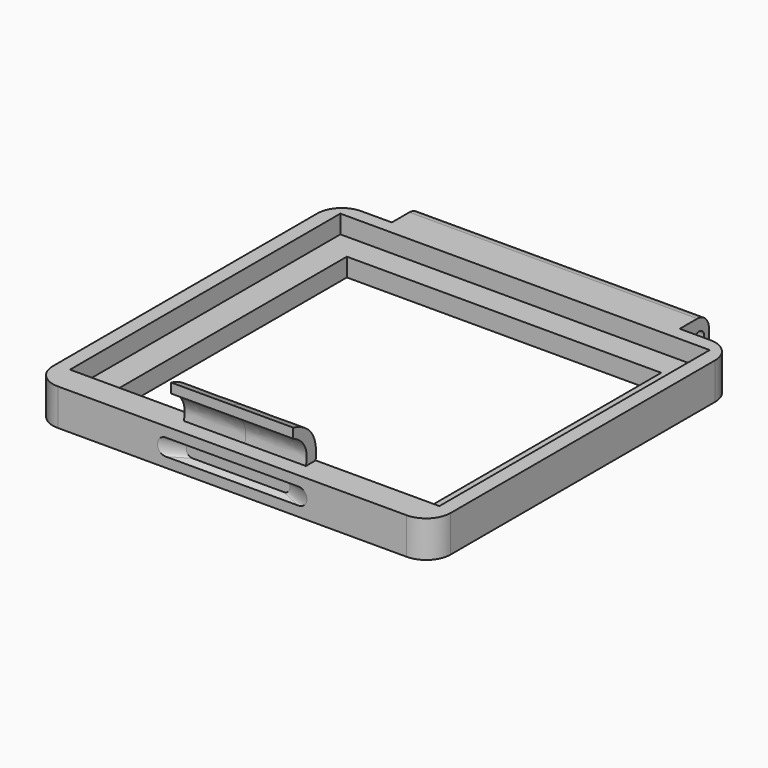
from build123d import *

# Parameters (mm, degrees)
PAD003_DEPTH         = 3
SKETCH012_R          = 0.5
POCKET003_DEPTH      = 16.301
POCKET003_DEPTH_BACK = 16.301
SKETCH013_W          = 30.27619
SKETCH013_H          = 27.7
POCKET004_DEPTH      = 1.5
SKETCH014_W          = 25.766444
SKETCH014_H          = 24.595242
POCKET005_DEPTH      = 3.001
FILLET_R             = 1.2
PAD005_DEPTH         = 5
FILLET002_R          = 2


with BuildPart() as part:
    # Sketch009 → Pad003 (new body)
    with BuildSketch(Plane.XY):
        Polygon((-11.8, 14.8), (-16.3, 14.8), (-16.3, -16.3), (16.3, -16.3), (16.3, 14.8), (11.8, 14.8), (11.8, 17.8), (-11.8, 17.8), align=None)
    extrude(amount=PAD003_DEPTH)

    # Sketch010 (on DatumPlane) → SubtractiveLoft section 0
    with BuildSketch(Plane.XZ.offset(16.5)):
        with BuildLine():
            ThreePointArc((-6, 2.25), (-6.75, 1.5), (-6, 0.75))
            Line((-6, 0.75), (6, 0.75))
            ThreePointArc((6, 0.75), (6.75, 1.5), (6, 2.25))
            Line((-6, 2.25), (6, 2.25))
        make_face()
    # Sketch011 (on DatumPlane) → SubtractiveLoft section 1
    with BuildSketch(Plane.XZ.offset(15.7)):
        with BuildLine():
            ThreePointArc((-3.75, 2), (-4.25, 1.5), (-3.75, 1))
            Line((-3.75, 1), (3.75, 1))
            ThreePointArc((3.75, 1), (4.25, 1.5), (3.75, 2))
            Line((-3.75, 2), (3.75, 2))
        make_face()
    loft(mode=Mode.SUBTRACT)

    # Sketch012 (on DatumPlane) → Pocket003 (cut, two sides)
    with BuildSketch(Plane.YZ) as pocket003_sk:
        with Locations((16.8, 1.5)):
            Circle(SKETCH012_R)
    extrude(amount=-POCKET003_DEPTH, mode=Mode.SUBTRACT)
    extrude(pocket003_sk.sketch, amount=POCKET003_DEPTH_BACK, mode=Mode.SUBTRACT)

    # Sketch013 (on DatumPlane) → Pocket004 (cut)
    with BuildSketch(Plane.XY.offset(3)):
        with Locations((0, -0.15)):
            Rectangle(SKETCH013_W, SKETCH013_H)
    extrude(amount=-POCKET004_DEPTH, mode=Mode.SUBTRACT)

    # Sketch014 (on DatumPlane) → Pocket005 (cut, through all)
    with BuildSketch(Plane.XY.offset(3)):
        with Locations((0, -0.75)):
            Rectangle(SKETCH014_W, SKETCH014_H)
    extrude(amount=-POCKET005_DEPTH, mode=Mode.SUBTRACT)

    # Fillet
    fillet_edges = [part.edges().sort_by_distance(p)[0] for p in [
        (0, 17.8, 3),
        (0, 17.8, 0),
    ]]
    fillet(fillet_edges, radius=FILLET_R)

    # Sketch018 (on DatumPlane) → Pad005 (join, symmetric)
    with BuildSketch(Plane.YZ):
        with BuildLine():
            Line((-14, 3), (-15, 3))
            add(Edge.make_bspline(
                [(-15, 3), (-14.589899, 4.698463), (-16.3, 5.5)],
                knots=[0, 0, 0, 1, 1, 1], degree=2))
            Line((-16.3, 5.5), (-16.3, 6.3))
            add(Edge.make_bspline(
                [(-14, 3), (-13.679767, 5.619108), (-16.3, 6.3)],
                knots=[0, 0, 0, 1, 1, 1], degree=2))
        make_face()
    extrude(amount=PAD005_DEPTH, both=True)

    # Fillet002
    fillet002_edges = [part.edges().sort_by_distance(p)[0] for p in [
        (16.3, -16.3, 1.5),
        (16.3, 14.8, 1.5),
        (-16.3, 14.8, 1.5),
        (-16.3, -16.3, 1.5),
    ]]
    fillet(fillet002_edges, radius=FILLET002_R)


with BuildPart() as part_1:
    # cover placement: moved
    add(part.part.moved(Location((0, 0, 55))))


solid = part_1.part
